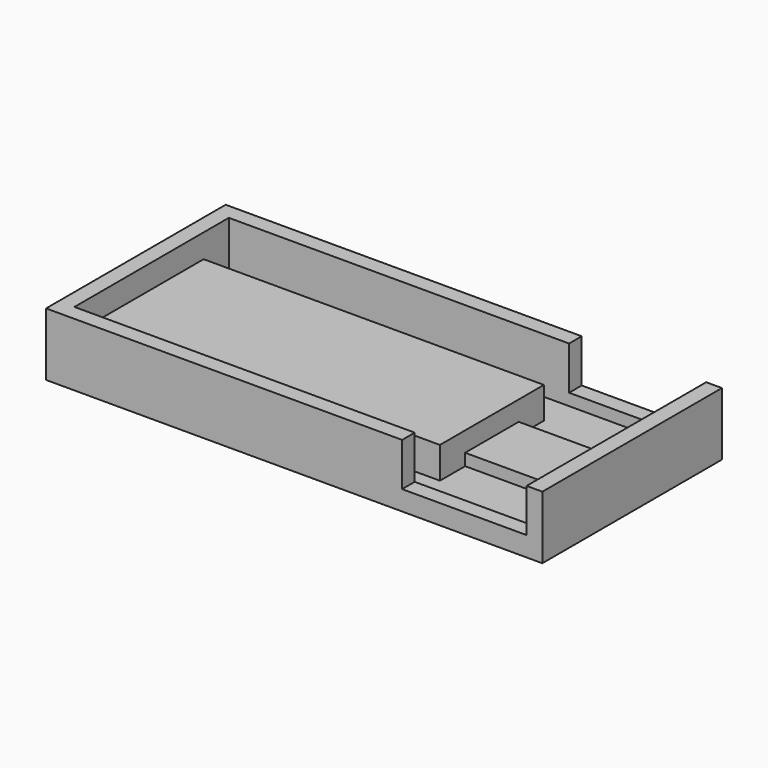
from build123d import *

# Parameters (mm, degrees)
F0_W     = 43.2
F0_H     = 4
F1_DEPTH = 1
F0_W_2   = 15.8
F0_H_2   = 2
F0_H_3   = 8.5
F2_DEPTH = 2.5
F3_DEPTH = 5
F4_DEPTH = 8


with BuildPart() as f1:
    # F0 (on Top) → F1 (new body)
    with BuildSketch(Plane.XY):
        Polygon((59, 16.5), (59, 24.5), (43.2, 24.5), (43.2, 20.5), (43.2, 16.5), align=None)
        with Locations((21.6, 22.5)):
            Rectangle(F0_W, F0_H)
    extrude(amount=F1_DEPTH)



with BuildPart() as f1b:
    # F0 (on Top) → F1, piece 2 (new body)
    with BuildSketch(Plane.XY):
        Polygon((59, 0), (59, 8), (43.2, 8), (43.2, 4), (43.2, 0), align=None)
        with Locations((21.6, 2)):
            Rectangle(F0_W, F0_H)
    extrude(amount=F1_DEPTH)


with BuildPart() as f1_1:
    add(f1.part)

    add(f1b.part)  # F2 merges F1b
    # F0 (on Top) → F2 (join)
    with BuildSketch(Plane.XY):
        with Locations((51.1, 25.5)):
            Rectangle(F0_W_2, F0_H_2)
        with Locations((51.1, 12.25)):
            Rectangle(F0_W_2, F0_H_3)
        with Locations((51.1, -1)):
            Rectangle(F0_W_2, F0_H_2)
    extrude(amount=F2_DEPTH)

    # F0 (on Top) → F3 (join)
    with BuildSketch(Plane.XY):
        Polygon((43.2, 8), (43.2, 16.5), (43.2, 20.5), (0, 20.5), (0, 4), (43.2, 4), align=None)
    extrude(amount=F3_DEPTH)

    # F0 (on Top) → F4 (join)
    with BuildSketch(Plane.XY):
        Polygon((43.2, 24.5), (43.2, 26.5), (-2, 26.5), (-2, -2), (43.2, -2), (43.2, 0), (0, 0), (0, 4), (0, 20.5), (0, 24.5), align=None)
        Polygon((61, 26.5), (59, 26.5), (59, 24.5), (59, 16.5), (59, 8), (59, 0), (59, -2), (61, -2), align=None)
    extrude(amount=F4_DEPTH)


solid = f1_1.part
